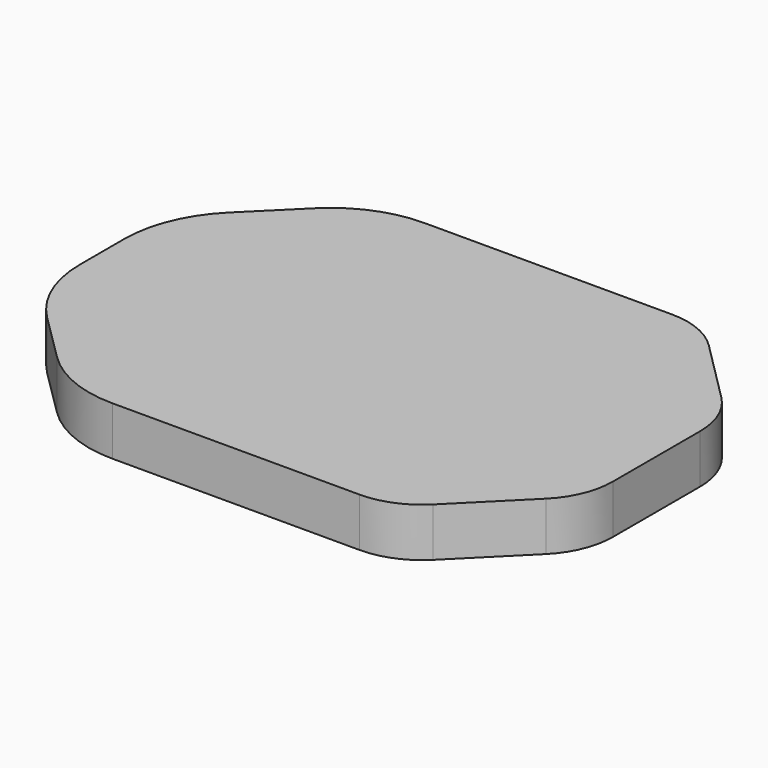
from build123d import *

# Parameters (mm, degrees)
F1_DEPTH = 6.35


with BuildPart() as f1:
    # F0 (on Top) → F1 (new body)
    with BuildSketch(Plane.XY):
        with BuildLine():
            ThreePointArc((-2.975795, 13.213073), (-0.773384, 16.509214), (0, 20.397278))
            Line((0, 20.397278), (0, 34.586458))
            ThreePointArc((0, 34.586458), (-0.773384, 38.474522), (-2.975795, 41.770663))
            Line((-2.975795, 41.770663), (-11.121205, 49.916073))
            ThreePointArc((-11.121205, 49.916073), (-14.417346, 52.118484), (-18.30541, 52.891868))
            Line((-18.30541, 52.891868), (-50.493396, 52.891868))
            ThreePointArc((-50.493396, 52.891868), (-56.296268, 51.743861), (-61.224896, 48.472797))
            Line((-61.224896, 48.472797), (-67.477217, 42.272149))
            ThreePointArc((-67.477217, 42.272149), (-70.924721, 37.147193), (-72.136, 31.090522))
            Line((-72.136, 31.090522), (-72.136, 23.893214))
            ThreePointArc((-72.136, 23.893214), (-70.924721, 17.836543), (-67.477217, 12.711587))
            Line((-67.477217, 12.711587), (-61.224896, 6.510939))
            ThreePointArc((-61.224896, 6.510939), (-56.296268, 3.239874), (-50.493396, 2.091868))
            Line((-50.493396, 2.091868), (-18.30541, 2.091868))
            ThreePointArc((-18.30541, 2.091868), (-14.417346, 2.865252), (-11.121205, 5.067663))
            Line((-11.121205, 5.067663), (-2.975795, 13.213073))
        make_face()
    extrude(amount=F1_DEPTH)


solid = f1.part
